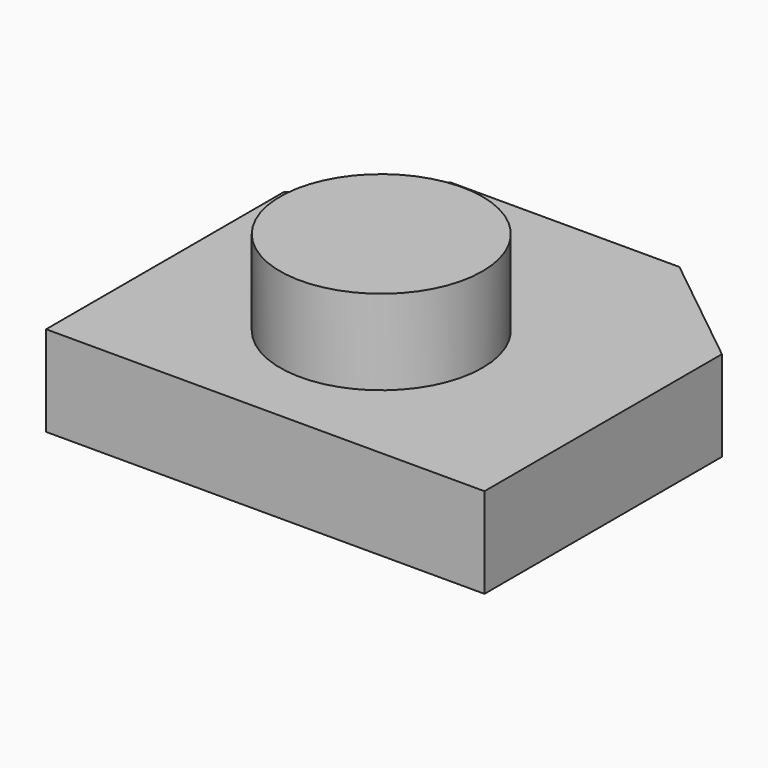
from build123d import *

# Parameters (mm, degrees)
F0_W     = 32.5
F0_H     = 22
F1_DEPTH = 6.7
F2_R     = 7.5
F3_DEPTH = 13


with BuildPart() as f1:
    # F0 (on Top) → F1 (new body)
    with BuildSketch(Plane.XY):
        with Locations((1, -1)):
            Rectangle(F0_W, F0_H)
        Polygon((-8.5, 17), (-15.25, 10), (17.25, 10), (8.5, 17), align=None)
    extrude(amount=F1_DEPTH)

    # F2 (on Top) → F3 (join)
    with BuildSketch(Plane.XY):
        Circle(F2_R)
    extrude(amount=F3_DEPTH)


solid = f1.part
